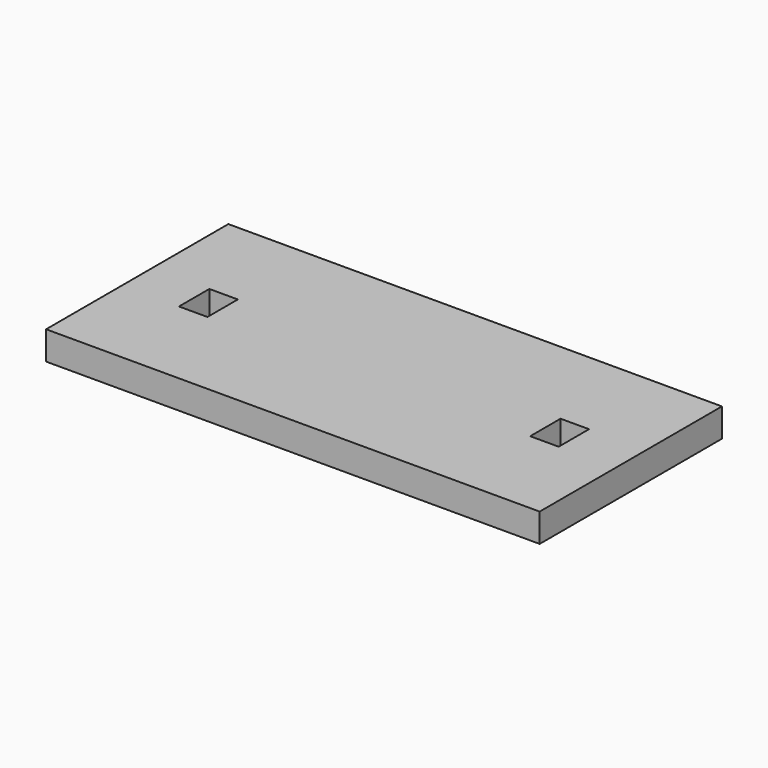
from build123d import *

# Parameters (mm, degrees)
F1_DEPTH = 19.05


with BuildPart() as f1:
    # F0 (on Top) → F1 (new body)
    with BuildSketch(Plane.XY):
        Polygon((0, -152.4), (0, 0), (-38.1, 0), (-38.1, -63.5), (-38.1, -88.9), (-38.1, -152.4), align=None)
        Polygon((-38.1, -63.5), (-38.1, 0), (-292.1, 0), (-292.1, -63.5), (-273.05, -63.5), (-273.05, -88.9), (-292.1, -88.9), (-292.1, -152.4), (-38.1, -152.4), (-38.1, -88.9), (-57.15, -88.9), (-57.15, -63.5), align=None)
        Polygon((-292.1, -63.5), (-292.1, 0), (-330.2, 0), (-330.2, -152.4), (-292.1, -152.4), (-292.1, -88.9), align=None)
    extrude(amount=F1_DEPTH)


solid = f1.part
